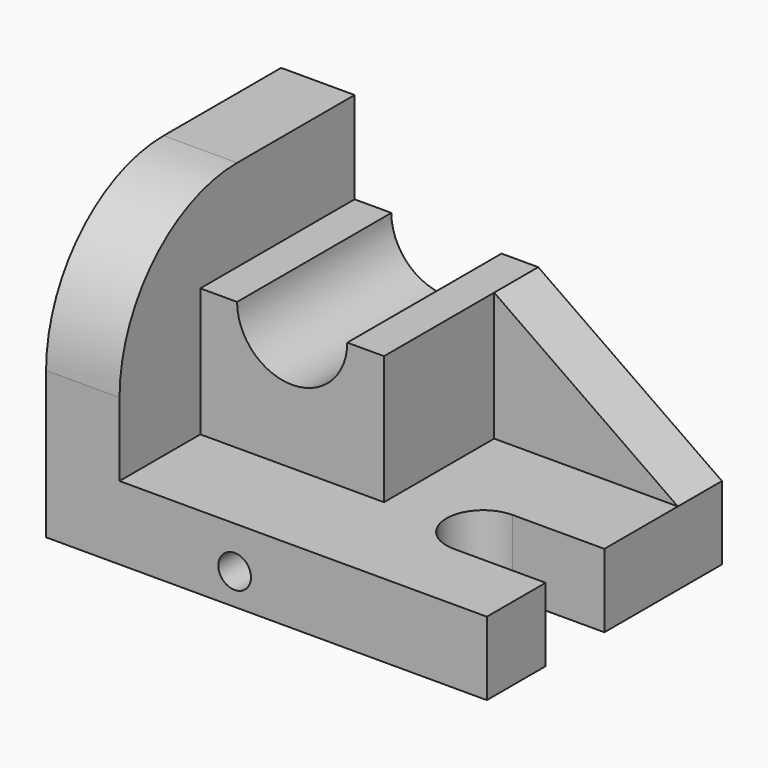
from build123d import *

# Parameters (mm, degrees)
F0_W      = 96
F0_H      = 64
F1_DEPTH  = 16
F3_DEPTH  = 16.001
F4_W      = 16
F4_H      = 64
F5_DEPTH  = 48
F6_R      = 32
F7_W      = 40
F7_H      = 42
F8_DEPTH  = 28
F10_DEPTH = 42.001
F12_DEPTH = 12
F13_R     = 3.560892
F14_DEPTH = 64.001


with BuildPart() as f1:
    # F0 (on Top) → F1 (new body)
    with BuildSketch(Plane.XY):
        with Locations((48, 32)):
            Rectangle(F0_W, F0_H)
    extrude(amount=F1_DEPTH)

    # F2 (on face) → F3 (cut, through all)
    with BuildSketch(Plane.XY.offset(16)):
        with BuildLine():
            ThreePointArc((76, 32), (68, 24), (76, 16))
            Line((76, 16), (96, 16))
            Line((96, 16), (96, 32))
            Line((96, 32), (76, 32))
        make_face()
    extrude(amount=-F3_DEPTH, mode=Mode.SUBTRACT)

    # F4 (on face) → F5 (join)
    with BuildSketch(Plane.XY.offset(16)):
        with Locations((8, 32)):
            Rectangle(F4_W, F4_H)
    extrude(amount=F5_DEPTH)

    # F6
    f6_edges = [f1.edges().sort_by_distance(p)[0] for p in [
        (8, 0, 64),
    ]]
    fillet(f6_edges, radius=F6_R)

    # F7 (on face) → F8 (join)
    with BuildSketch(Plane.XY.offset(16)):
        with Locations((36, 43)):
            Rectangle(F7_W, F7_H)
    extrude(amount=F8_DEPTH)

    # F9 (on face) → F10 (cut, through all)
    with BuildSketch(Plane.XZ.offset(-22)):
        with BuildLine():
            ThreePointArc((24, 44), (36, 32), (48, 44))
            Line((48, 44), (24, 44))
        make_face()
        with BuildLine():
            Line((24, 44), (48, 44))
            ThreePointArc((48, 44), (36, 56), (24, 44))
        make_face()
    extrude(amount=-F10_DEPTH, mode=Mode.SUBTRACT)

    # F11 (on face) → F12 (join)
    with BuildSketch(Plane(origin=(0, 64, 0), x_dir=(-1, 0, 0), z_dir=(0, 1, 0))):
        Polygon((-56, 16), (-56, 44), (-96, 16), align=None)
    extrude(amount=-F12_DEPTH)

    # F13 (on face) → F14 (cut, through all)
    with BuildSketch(Plane.XZ):
        with Locations((41.068658, 6.811937)):
            Circle(F13_R)
    extrude(amount=-F14_DEPTH, mode=Mode.SUBTRACT)


solid = f1.part
